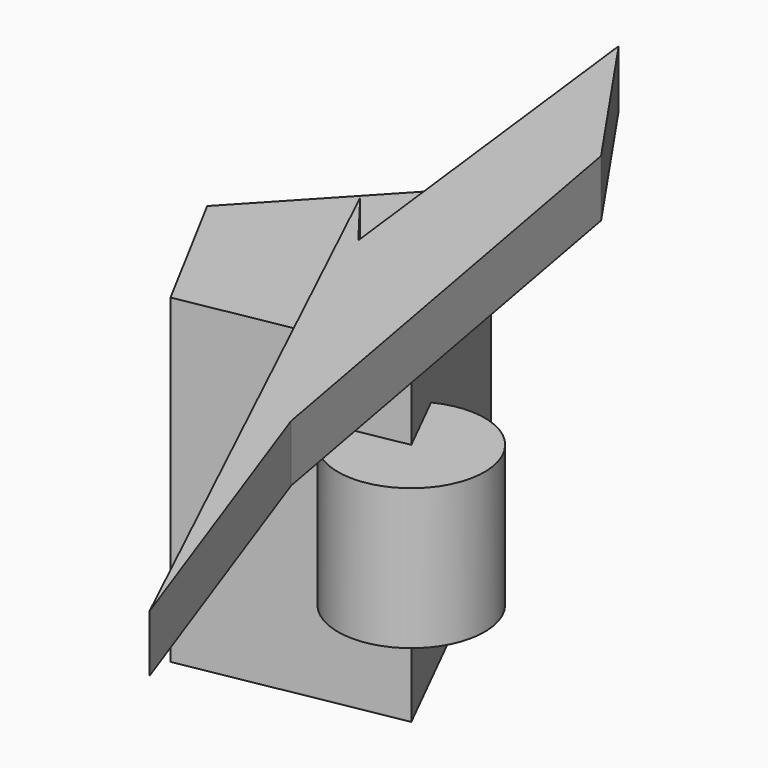
from build123d import *

# Parameters (mm, degrees)
F1_DEPTH = 143.0895626545
F2_W     = 32.7163190505
F2_H     = 62.8041177988
F5_DEPTH = 25.4


with BuildPart() as f1:
    # F0 (on Top) → F1 (new body)
    with BuildSketch(Plane.XY):
        Polygon((68.2270601392, 72.8508606553), (0, 0), (33.1200025976, -61.8286803365), (126.8782764673, -44.8034033179), align=None)
    extrude(amount=F1_DEPTH)

    # F2 (on face) → F3 (revolve)
    with BuildSketch(Plane(origin=(11.9261231966, -65.6772118101, 0), x_dir=(0.9839099311, 0.1786651828, 0), z_dir=(0.1786651828, -0.9839099311, 0))):
        with Locations((133.190147536, 77.3819759488)):
            Rectangle(F2_W, F2_H)
    revolve(axis=Axis((126.8782764673, -44.8034033179, 77.3819759488), (0, 0, 1)))

    # F4 (on face) → F5 (join)
    with BuildSketch(Plane.XY.offset(143.0895626545)):
        Polygon((126.8782764673, -44.8034033179), (92.4838976122, -51.0489729484), (205.7687044144, -289.458990097), (154.5593430204, -146.4109615539), (113.9569729567, 77.1864652634), (67.0186877251, 145.6461846828), (78.2807342193, 52.6832034748), align=None)
        Polygon((87.7431482077, -25.424644351), (68.2270601392, 0), (92.4838976122, -51.0489729484), (126.8782764673, -44.8034033179), (78.2807342193, 52.6832034748), align=None)
    extrude(amount=F5_DEPTH)


solid = f1.part
